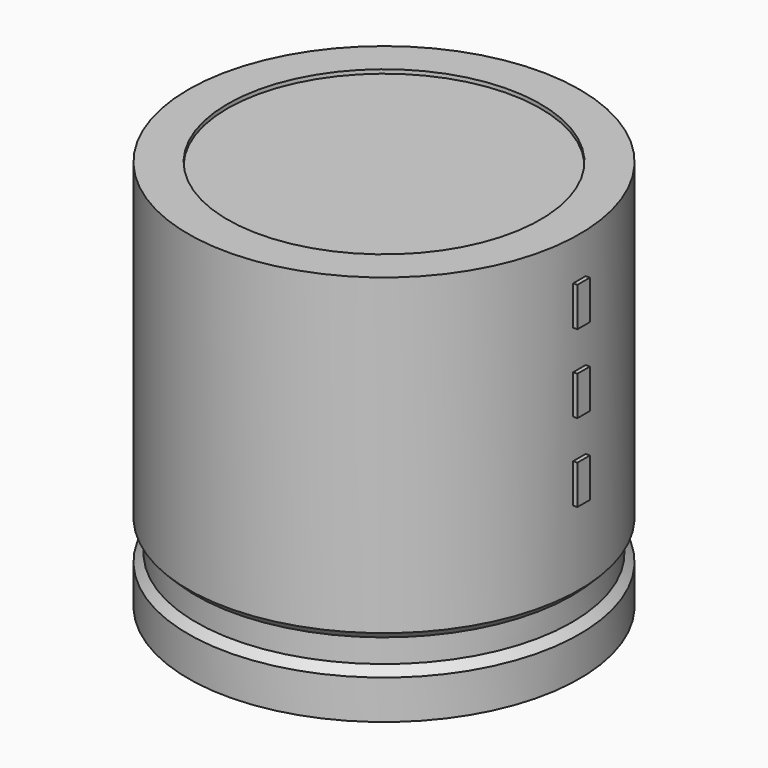
from build123d import *

# Parameters (mm, degrees)
SKETCH002_W   = 16.1
SKETCH002_H   = 34.3
SKETCH003_R   = 0.85
SKETCH003_R_2 = 1.1
PAD_DEPTH     = 6.5
SKETCH004_W   = 1.4
SKETCH004_H   = 3.5
PAD001_DEPTH  = 17.85


with BuildPart() as revolution:
    # Sketch → Revolution (revolve)
    with BuildSketch(Plane.XZ):
        Polygon((-12.5, 0.1), (-12.5, 3.6), (-11.8, 4.3), (-11.8, 6.4), (-12.5, 7.1), (-12.5, 35.1), (-9, 35.1), (-9, 0.1), align=None)
    revolve(axis=Axis((5, 0, 7.548619), (0, 0, -1)))


with BuildPart() as revolution001:
    # Sketch002 → Revolution001 (revolve)
    with BuildSketch(Plane.XZ):
        with Locations((-3.05, 17.6)):
            Rectangle(SKETCH002_W, SKETCH002_H)
    revolve(axis=Axis((5, 0, 4.680116), (0, 0, -1)))


with BuildPart() as pad:
    # Sketch003 → Pad (new body)
    with BuildSketch(Plane.XY.offset(3.5)):
        Circle(SKETCH003_R)
        with Locations((10, 0)):
            Circle(SKETCH003_R)
        with Locations((6.7, 4.75)):
            Circle(SKETCH003_R_2)
    extrude(amount=-PAD_DEPTH)


with BuildPart() as pad001:
    # Sketch004 → Pad001 (new body)
    with BuildSketch(Plane.YZ.offset(5)):
        with Locations((0, 15.75)):
            Rectangle(SKETCH004_W, SKETCH004_H)
        with Locations((0, 22.75)):
            Rectangle(SKETCH004_W, SKETCH004_H)
        with Locations((0, 29.75)):
            Rectangle(SKETCH004_W, SKETCH004_H)
    extrude(amount=PAD001_DEPTH)


solid = Compound([revolution.part, revolution001.part, pad.part, pad001.part])
